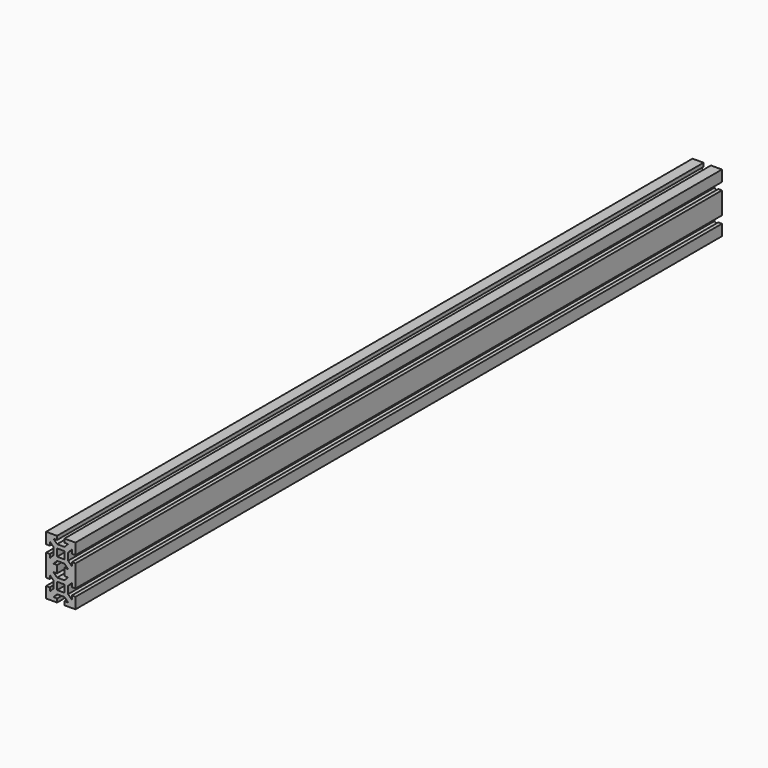
from build123d import *

# Parameters (mm, degrees)
F1_DEPTH = 1100


with BuildPart() as f1:
    # F0 (on Front) → F1 (new body)
    with BuildSketch(Plane.XZ):
        Polygon((5, -20), (20, -20), (20, -5), (15, -5), (15, -10), (10, -5), (10, 5), (15, 10), (15, 5), (20, 5), (20, 20), (20, 35), (15, 35), (15, 30), (10, 35), (10, 45), (15, 50), (15, 45), (20, 45), (20, 60), (5, 60), (5, 55), (10, 55), (5, 50), (-5, 50), (-10, 55), (-5, 55), (-5, 60), (-20, 60), (-20, 45), (-15, 45), (-15, 50), (-10, 45), (-10, 35), (-15, 30), (-15, 35), (-20, 35), (-20, 20), (-20, 5), (-15, 5), (-15, 10), (-10, 5), (-10, -5), (-15, -10), (-15, -5), (-20, -5), (-20, -20), (-5, -20), (-5, -15), (-10, -15), (-5, -10), (5, -10), (10, -15), (5, -15), align=None)
        Polygon((-5, 0), (-5, 5), (0, 5), (5, 5), (5, 0), (5, -5), (0, -5), (-5, -5), align=None, mode=Mode.SUBTRACT)
        Polygon((-5, 15), (-5, 20), (-5, 25), (-10, 25), (-5, 30), (5, 30), (10, 25), (5, 25), (5, 20), (5, 15), (10, 15), (5, 10), (-5, 10), (-10, 15), align=None, mode=Mode.SUBTRACT)
        Polygon((-5, 40), (-5, 45), (0, 45), (5, 45), (5, 40), (5, 35), (0, 35), (-5, 35), align=None, mode=Mode.SUBTRACT)
    extrude(amount=F1_DEPTH)


solid = f1.part
